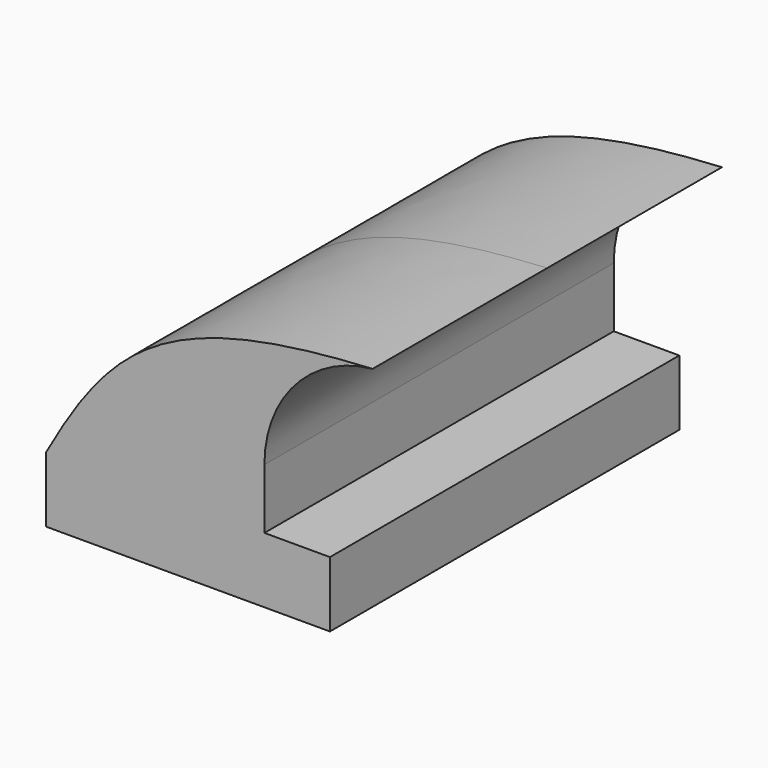
from build123d import *

# Parameters (mm, degrees)
F1_DEPTH = 63.5


with BuildPart() as f1:
    # F0 (on Front) → F1 (new body, symmetric)
    with BuildSketch(Plane.XZ):
        Polygon((22.225, 9.525), (-41.275, 9.525), (-41.275, -9.525), (41.275, -9.525), (41.275, 9.525), align=None)
        with BuildLine():
            add(Edge.make_bspline(
                [(-41.275, 9.525), (-22.152034, 43.789731), (-6.199229, 58.509477), (53.67874, 61.752264)],
                knots=[0, 0, 0, 0, 109.419452, 109.419452, 109.419452, 109.419452], degree=3))
            Line((-41.275, 9.525), (22.225, 9.525))
            Line((22.225, 9.525), (22.225, 27.0002))
            ThreePointArc((22.225, 27.0002), (31.256088, 50.436517), (53.67874, 61.752264))
        make_face()
    extrude(amount=F1_DEPTH, both=True)


solid = f1.part
